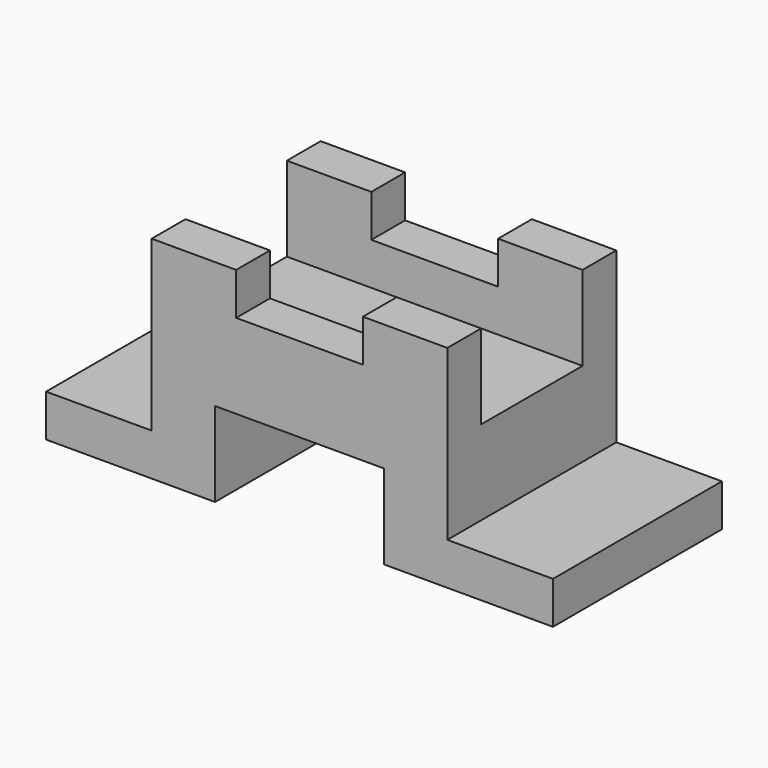
from build123d import *

# Parameters (mm, degrees)
F1_DEPTH = 50
F2_W     = 20
F2_H     = 30
F2_W_2   = 50
F3_DEPTH = 20


with BuildPart() as f1:
    # F0 (on Front) → F1 (new body)
    with BuildSketch(Plane.XZ):
        Polygon((-60, 0), (-20, 0), (-20, 20), (0, 20), (0, 40), (-15, 40), (-15, 50), (-35, 50), (-35, 10), (-60, 10), align=None)
        Polygon((0, 40), (0, 20), (20, 20), (20, 0), (60, 0), (60, 10), (35, 10), (35, 50), (15, 50), (15, 40), align=None)
    extrude(amount=F1_DEPTH)

    # F2 (on face) → F3 (cut)
    with BuildSketch(Plane.XY.offset(50)):
        with Locations((-25, -25)):
            Rectangle(F2_W, F2_H)
        with Locations((10, -25)):
            Rectangle(F2_W_2, F2_H)
    extrude(amount=-F3_DEPTH, mode=Mode.SUBTRACT)


solid = f1.part
